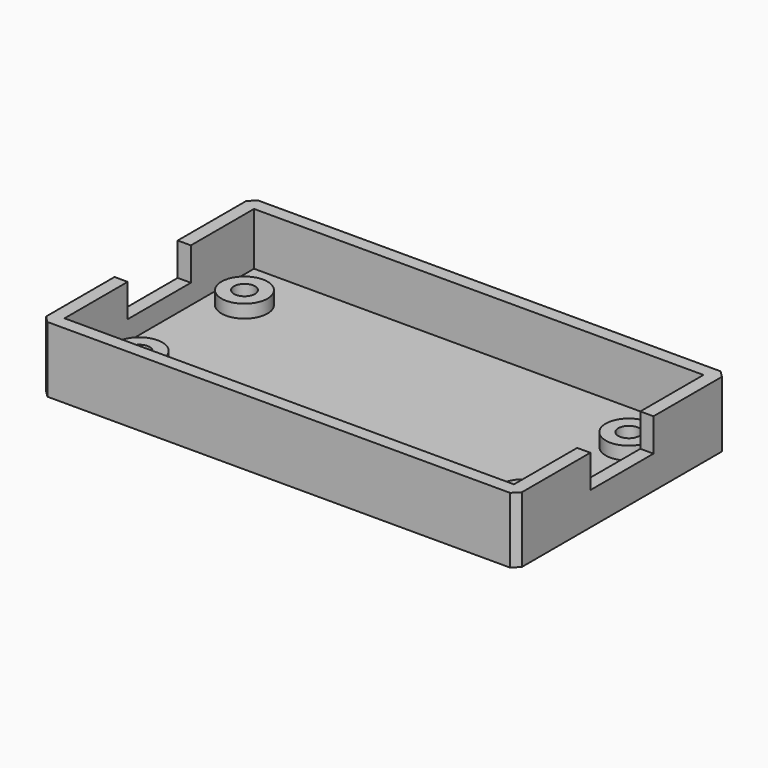
from build123d import *

# Parameters (mm, degrees)
BOX_W             = 67.3
BOX_H             = 34.3
BOX_DEPTH         = 1
BOX007_W          = 2
BOX007_H          = 12
BOX007_DEPTH      = 5
BOX008_W          = 2
BOX008_H          = 12
BOX008_DEPTH      = 5
CYLINDER006_R     = 1.6
CYLINDER006_DEPTH = 5
CYLINDER004_R     = 1.6
CYLINDER004_DEPTH = 5
CYLINDER005_R     = 1.6
CYLINDER005_DEPTH = 5
CYLINDER007_R     = 1.6
CYLINDER007_DEPTH = 5
BOX005_W          = 72.3
BOX005_H          = 2
BOX005_DEPTH      = 10
BOX004_W          = 2
BOX004_H          = 40
BOX004_DEPTH      = 10
BOX003_W          = 2
BOX003_H          = 40
BOX003_DEPTH      = 10
BOX006_W          = 72.3
BOX006_H          = 2
BOX006_DEPTH      = 10
BOX002_W          = 72.3
BOX002_H          = 40
BOX002_DEPTH      = 2
CYLINDER002_R     = 3.5
CYLINDER002_DEPTH = 5
CYLINDER001_R     = 3.5
CYLINDER001_DEPTH = 5
CYLINDER_R        = 3.5
CYLINDER_DEPTH    = 5
CYLINDER003_R     = 3.5
CYLINDER003_DEPTH = 5
CHAMFER_SIZE      = 1


with BuildPart() as cube:
    # Box → Box (new body)
    with BuildSketch(Plane(origin=(2.5, 2.85, 4), x_dir=(1, 0, 0), z_dir=(0, 0, 1))):
        with Locations((33.65, 17.15)):
            Rectangle(BOX_W, BOX_H)
    extrude(amount=BOX_DEPTH)


with BuildPart() as cube007:
    # Box007 → Box007 (new body)
    with BuildSketch(Plane(origin=(0, 14, 2), x_dir=(1, 0, 0), z_dir=(0, 0, 1))):
        with Locations((1, 6)):
            Rectangle(BOX007_W, BOX007_H)
    extrude(amount=BOX007_DEPTH)


with BuildPart() as fusion005:
    # Box008 → Box008 (new body)
    with BuildSketch(Plane(origin=(70.3, 14, 2), x_dir=(1, 0, 0), z_dir=(0, 0, 1))):
        with Locations((1, 6)):
            Rectangle(BOX008_W, BOX008_H)
    extrude(amount=BOX008_DEPTH)

    # Fusion005: union Cube007
    add(cube007.part)


with BuildPart() as fusion005_1:
    # Fusion005 placement: moved
    add(fusion005.part.moved(Location((0, 0, 3))))


with BuildPart() as cylinder006:
    # Cylinder006 → Cylinder006 (new body)
    with BuildSketch(Plane(origin=(65.35, 10, 0), x_dir=(1, 0, 0), z_dir=(0, 0, 1))):
        Circle(CYLINDER006_R)
    extrude(amount=CYLINDER006_DEPTH)


with BuildPart() as cylinder004:
    # Cylinder004 → Cylinder004 (new body)
    with BuildSketch(Plane(origin=(6.95, 30, 0), x_dir=(1, 0, 0), z_dir=(0, 0, 1))):
        Circle(CYLINDER004_R)
    extrude(amount=CYLINDER004_DEPTH)


with BuildPart() as cylinder005:
    # Cylinder005 → Cylinder005 (new body)
    with BuildSketch(Plane(origin=(65.35, 30, 0), x_dir=(1, 0, 0), z_dir=(0, 0, 1))):
        Circle(CYLINDER005_R)
    extrude(amount=CYLINDER005_DEPTH)


with BuildPart() as fusion002:
    # Cylinder007 → Cylinder007 (new body)
    with BuildSketch(Plane(origin=(6.95, 10, 0), x_dir=(1, 0, 0), z_dir=(0, 0, 1))):
        Circle(CYLINDER007_R)
    extrude(amount=CYLINDER007_DEPTH)

    # Fusion002: union Cylinder006, Cylinder004, Cylinder005
    add(cylinder006.part)
    add(cylinder004.part)
    add(cylinder005.part)


with BuildPart() as cube005:
    # Box005 → Box005 (new body)
    with BuildSketch(Plane.XY):
        with Locations((36.15, 1)):
            Rectangle(BOX005_W, BOX005_H)
    extrude(amount=BOX005_DEPTH)


with BuildPart() as cube004:
    # Box004 → Box004 (new body)
    with BuildSketch(Plane(origin=(70.3, 0, 0), x_dir=(1, 0, 0), z_dir=(0, 0, 1))):
        with Locations((1, 20)):
            Rectangle(BOX004_W, BOX004_H)
    extrude(amount=BOX004_DEPTH)


with BuildPart() as cube003:
    # Box003 → Box003 (new body)
    with BuildSketch(Plane.XY):
        with Locations((1, 20)):
            Rectangle(BOX003_W, BOX003_H)
    extrude(amount=BOX003_DEPTH)


with BuildPart() as wall:
    # Box006 → Box006 (new body)
    with BuildSketch(Plane(origin=(0, 38, 0), x_dir=(1, 0, 0), z_dir=(0, 0, 1))):
        with Locations((36.15, 1)):
            Rectangle(BOX006_W, BOX006_H)
    extrude(amount=BOX006_DEPTH)

    # Fusion: union Cube005, Cube004, Cube003
    add(cube005.part)
    add(cube004.part)
    add(cube003.part)


with BuildPart() as fusion003:
    # Box002 → Box002 (new body)
    with BuildSketch(Plane.XY):
        with Locations((36.15, 20)):
            Rectangle(BOX002_W, BOX002_H)
    extrude(amount=BOX002_DEPTH)

    # Fusion003: union wall
    add(wall.part)


with BuildPart() as cylinder002:
    # Cylinder002 → Cylinder002 (new body)
    with BuildSketch(Plane(origin=(65.35, 30, 0), x_dir=(1, 0, 0), z_dir=(0, 0, 1))):
        Circle(CYLINDER002_R)
    extrude(amount=CYLINDER002_DEPTH)


with BuildPart() as cylinder001:
    # Cylinder001 → Cylinder001 (new body)
    with BuildSketch(Plane(origin=(65.35, 10, 0), x_dir=(1, 0, 0), z_dir=(0, 0, 1))):
        Circle(CYLINDER001_R)
    extrude(amount=CYLINDER001_DEPTH)


with BuildPart() as cylinder:
    # Cylinder → Cylinder (new body)
    with BuildSketch(Plane(origin=(6.95, 10, 0), x_dir=(1, 0, 0), z_dir=(0, 0, 1))):
        Circle(CYLINDER_R)
    extrude(amount=CYLINDER_DEPTH)


with BuildPart() as chamfer_body:
    # Cylinder003 → Cylinder003 (new body)
    with BuildSketch(Plane(origin=(6.95, 30, 0), x_dir=(1, 0, 0), z_dir=(0, 0, 1))):
        Circle(CYLINDER003_R)
    extrude(amount=CYLINDER003_DEPTH)

    # Fusion001: union Cylinder002, Cylinder001, Cylinder
    add(cylinder002.part)
    add(cylinder001.part)
    add(cylinder.part)

    # Fusion004: union Fusion003
    add(fusion003.part)

    # Cut: cut Fusion002
    add(fusion002.part, mode=Mode.SUBTRACT)

    # Cut001: cut Fusion005
    add(fusion005_1.part, mode=Mode.SUBTRACT)

    # Cut002: cut Cube
    add(cube.part, mode=Mode.SUBTRACT)

    # Chamfer
    chamfer_edges = [chamfer_body.edges().sort_by_distance(p)[0] for p in [
        (0, 0, 6),
        (0, 40, 6),
        (72.3, 0, 6),
        (72.3, 40, 6),
        (0, 0, 1),
        (0, 40, 1),
        (72.3, 0, 1),
        (72.3, 40, 1),
    ]]
    chamfer(chamfer_edges, length=CHAMFER_SIZE)


solid = chamfer_body.part
